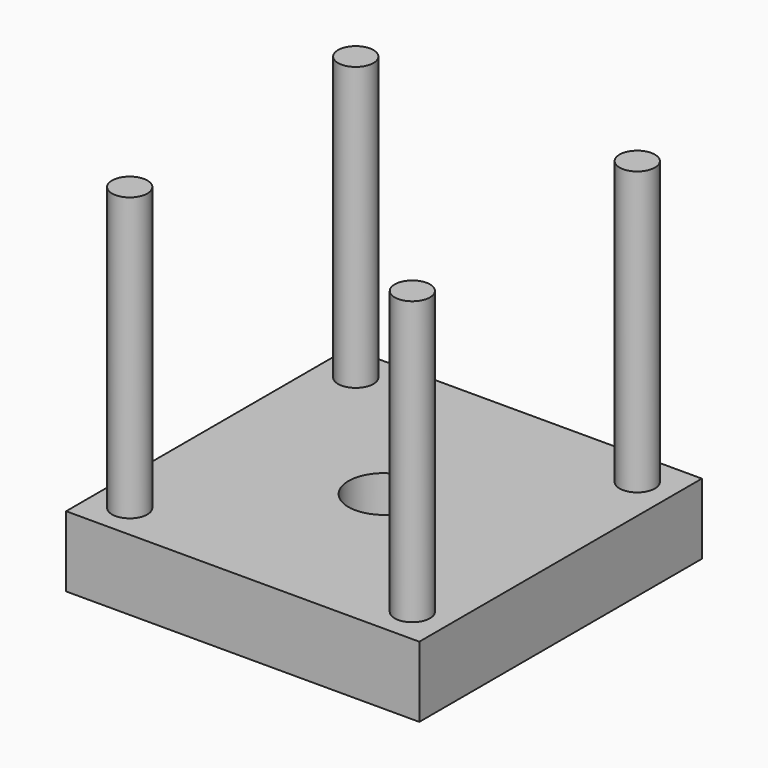
from build123d import *

# Parameters (mm, degrees)
F0_R     = 0.5
F0_R_2   = 1
F1_DEPTH = 2
F2_DEPTH = 10


with BuildPart() as f1:
    # F0 (on Top) → F1 (new body)
    with BuildSketch(Plane.XY):
        Polygon((5.029937, -5.029937), (5.029937, 4.970063), (-4.970063, 4.970063), (-4.970063, -0.907308), (-4.970063, -5.029937), align=None)
        with Locations((-3.970063, -4.029937)):
            Circle(F0_R, mode=Mode.SUBTRACT)
        with Locations((4.016325, -4.009387)):
            Circle(F0_R, mode=Mode.SUBTRACT)
        Circle(F0_R_2, mode=Mode.SUBTRACT)
        with Locations((-3.970063, 3.970063)):
            Circle(F0_R, mode=Mode.SUBTRACT)
        with Locations((4.016325, 3.949514)):
            Circle(F0_R, mode=Mode.SUBTRACT)
    extrude(amount=F1_DEPTH)

    # F0 (on Top) → F2 (join)
    with BuildSketch(Plane.XY):
        with Locations((-3.970063, 3.970063)):
            Circle(F0_R)
        with Locations((4.016325, 3.949514)):
            Circle(F0_R)
        with Locations((4.016325, -4.009387)):
            Circle(F0_R)
        with Locations((-3.970063, -4.029937)):
            Circle(F0_R)
    extrude(amount=F2_DEPTH)


solid = f1.part
